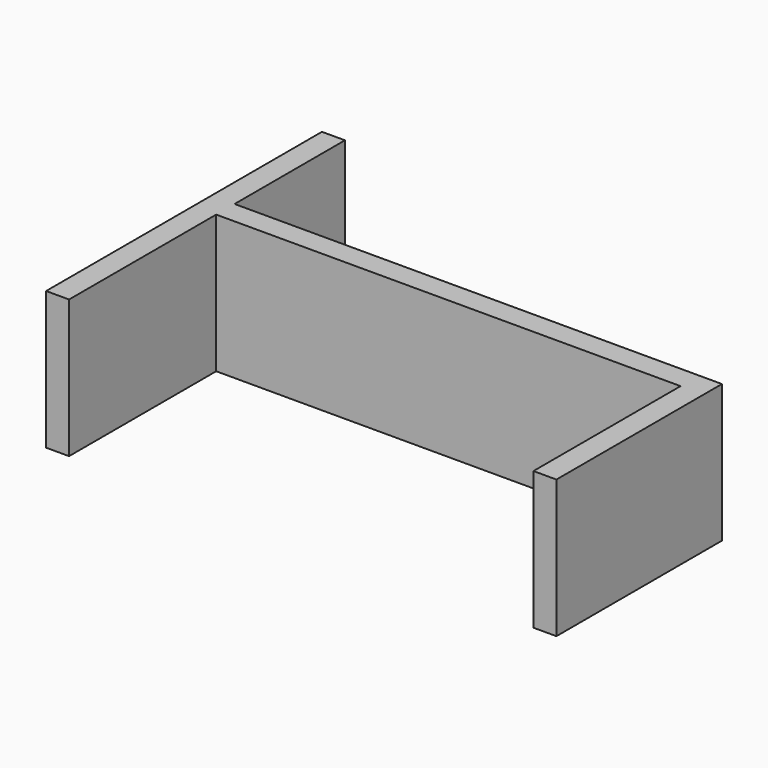
from build123d import *

# Parameters (mm, degrees)
F1_DEPTH = 15
F3_D     = 2.95


with BuildPart() as f1:
    # F0 (on Top) → F1 (new body)
    with BuildSketch(Plane.XY):
        Polygon((53, 0), (0, 0), (0, 15), (-2.5, 15), (-2.5, -22.5), (0, -22.5), (0, -2.5), (50.5, -2.5), (50.5, -22.5), (53, -22.5), align=None)
    extrude(amount=F1_DEPTH)

    # F3 (through all)
    with Locations(Plane.YZ):
        with Locations((7.5, 7.5)):
            Hole(F3_D / 2)


solid = f1.part
